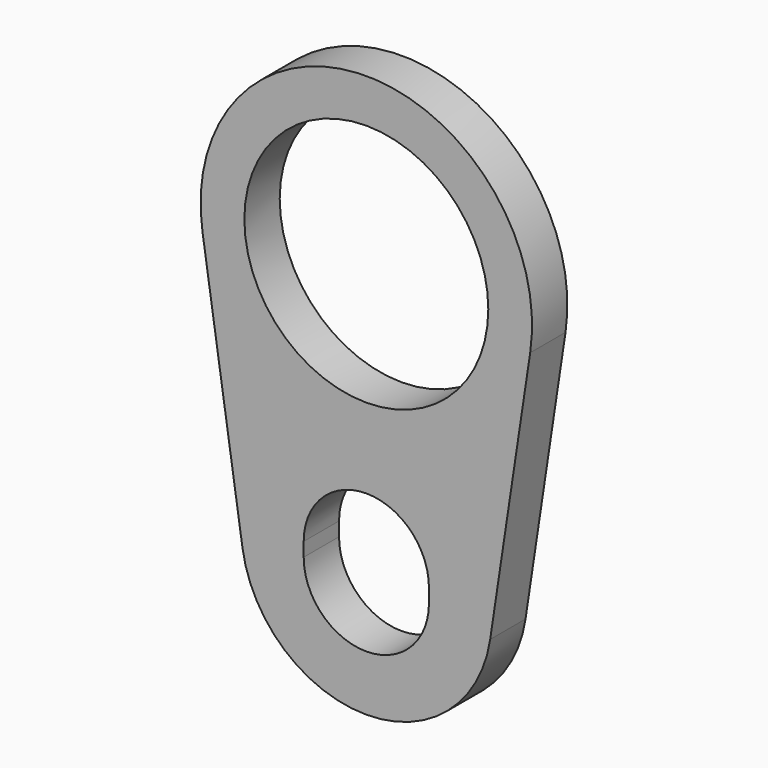
from build123d import *

# Parameters (mm, degrees)
F0_R     = 35.052
F1_DEPTH = 12.7


with BuildPart() as f1:
    # F0 (on Front) → F1 (new body)
    with BuildSketch(Plane.XZ):
        with BuildLine():
            Line((35.5979303883, -83.3653846154), (47.0930954095, -7.0979567308))
            ThreePointArc((47.0930954095, -7.0979567308), (0, 47.625), (-47.0930954095, -7.0979567308))
            Line((-47.0930954095, -7.0979567308), (-35.5979303883, -83.3653846154))
            ThreePointArc((-35.5979303883, -83.3653846154), (0, -114), (35.5979303883, -83.3653846154))
        make_face()
        with BuildLine():
            Line((-18, -80), (-18, -76))
            ThreePointArc((-18, -76), (0, -58), (18, -76))
            Line((18, -76), (18, -80))
            ThreePointArc((18, -80), (0, -98), (-18, -80))
        make_face(mode=Mode.SUBTRACT)
        Circle(F0_R, mode=Mode.SUBTRACT)
    extrude(amount=F1_DEPTH)


solid = f1.part
